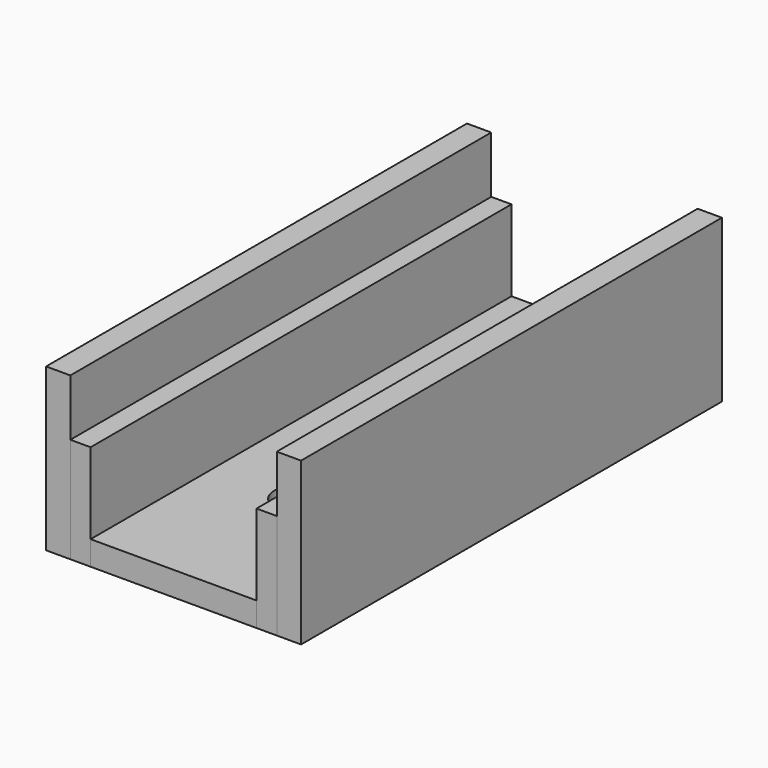
from build123d import *

# Parameters (mm, degrees)
F0_W     = 20.5
F0_H     = 65
F1_DEPTH = 3
F0_W_2   = 3
F2_DEPTH = 20
F3_D     = 5.5
F0_W_3   = 2.5
F4_DEPTH = 13


with BuildPart() as f1:
    # F0 (on Top) → F1 (new body)
    with BuildSketch(Plane.XY):
        with Locations((0.2499998137, -24.0457747273)):
            Rectangle(F0_W, F0_H)
    extrude(amount=F1_DEPTH)

    # F3 (through all)
    with Locations(Plane(origin=(0, 0, 0), x_dir=(1, 0, 0), z_dir=(0, 0, -1))):
        with Locations((0, 10.5457747273), (0.2499998137, 37.5457747273)):
            Hole(F3_D / 2)


with BuildPart() as f2:
    # F0 (on Top) → F2 (new body)
    with BuildSketch(Plane.XY):
        with Locations((14.4999998137, -24.0457747273)):
            Rectangle(F0_W_2, F0_H)
    extrude(amount=F2_DEPTH)


with BuildPart() as f2b:
    # F0 (on Top) → F2, piece 2 (new body)
    with BuildSketch(Plane.XY):
        with Locations((-14.0000001863, -24.0457747273)):
            Rectangle(F0_W_2, F0_H)
    extrude(amount=F2_DEPTH)


with BuildPart() as f4:
    # F0 (on Top) → F4 (new body)
    with BuildSketch(Plane.XY):
        with Locations((11.7499998137, -24.0457747273)):
            Rectangle(F0_W_3, F0_H)
    extrude(amount=F4_DEPTH)


with BuildPart() as f4b:
    # F0 (on Top) → F4, piece 2 (new body)
    with BuildSketch(Plane.XY):
        with Locations((-11.2500001863, -24.0457747273)):
            Rectangle(F0_W_3, F0_H)
    extrude(amount=F4_DEPTH)


solid = Compound([f1.part, f2.part, f2b.part, f4.part, f4b.part])
